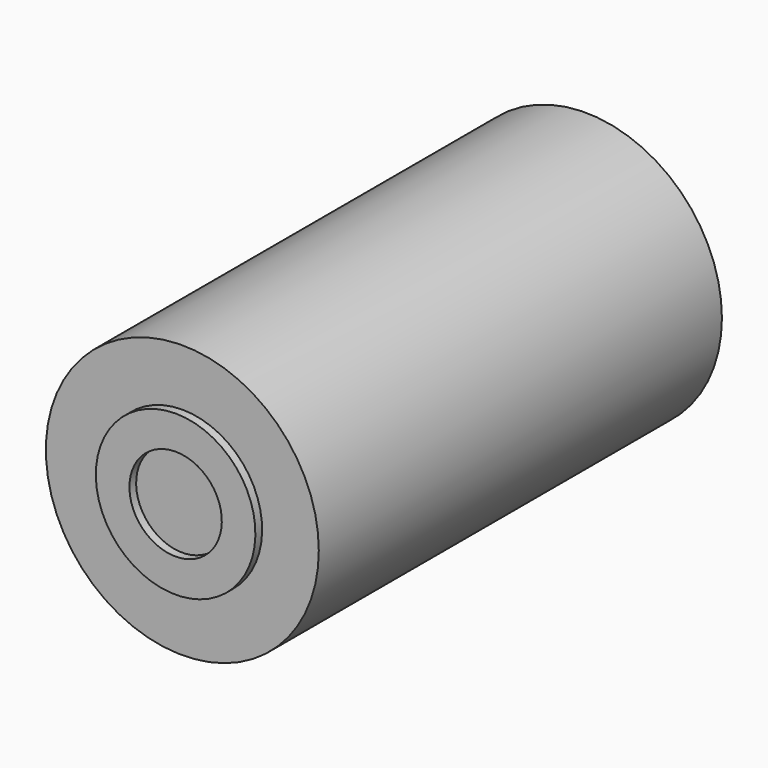
from build123d import *

# Parameters (mm, degrees)
F0_R     = 32.5
F0_R_2   = 17
F1_DEPTH = 120
F2_R     = 17
F2_R_2   = 11
F3_DEPTH = 20
F4_R     = 17
F4_R_2   = 11
F5_DEPTH = 20
F8_W     = 80
F8_H     = 1.5


with BuildPart() as f1:
    # F0 (on Front) → F1 (new body)
    with BuildSketch(Plane.XZ):
        Circle(F0_R)
        Circle(F0_R_2, mode=Mode.SUBTRACT)
    extrude(amount=-F1_DEPTH)


with BuildPart() as f3:
    # F2 (on face) → F3 (new body)
    with BuildSketch(Plane.XZ):
        Circle(F2_R)
        Circle(F2_R_2, mode=Mode.SUBTRACT)
    extrude(amount=-F3_DEPTH)


with BuildPart() as f5:
    # F4 (on face) → F5 (new body)
    with BuildSketch(Plane(origin=(0, 120, 0), x_dir=(-1, 0, 0), z_dir=(0, 1, 0))):
        Circle(F4_R)
        Circle(F4_R_2, mode=Mode.SUBTRACT)
    extrude(amount=-F5_DEPTH)


with BuildPart() as f7:
    # F6 (on Right) → F7 (revolve)
    with BuildSketch(Plane.YZ):
        Polygon((0, 11), (0, 0), (120, 0), (120, 11), (100, 11), (100, 12.5), (20, 12.5), (20, 11), align=None)
    revolve(axis=Axis((0, 61.001737, 0), (0, 1, 0)))


with BuildPart() as f9:
    # F8 (on Right) → F9 (revolve)
    with BuildSketch(Plane.YZ):
        with Locations((60, 16.25)):
            Rectangle(F8_W, F8_H)
    revolve(axis=Axis((0, 66.656585, 0), (0, 1, 0)))


with BuildPart() as f11:
    # F10 (on Right) → F11 (revolve)
    with BuildSketch(Plane.YZ):
        Polygon((0, 17), (0, 19), (-2, 19), (-2, 11), (2, 11), (2, 17), align=None)
    revolve(axis=Axis((0, -15.834864, 0), (0, -1, 0)))


solid = Compound([f1.part, f3.part, f5.part, f7.part, f9.part, f11.part])
